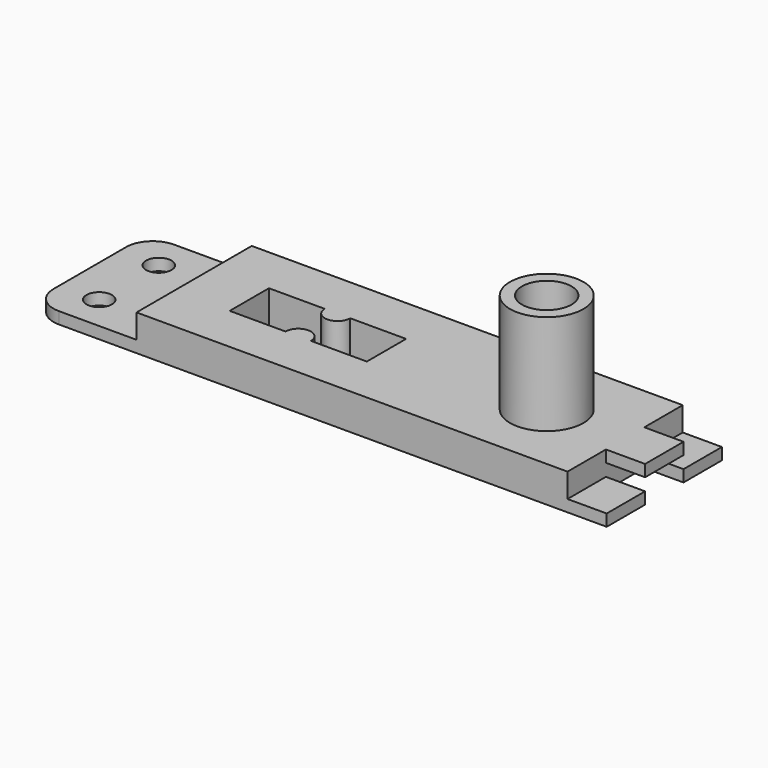
from build123d import *

# Parameters (mm, degrees)
F0_R     = 1.651
F0_R_2   = 4.7625
F0_R_3   = 3.2131
F0_W     = 5.08
F0_H     = 6.223
F1_DEPTH = 1.524
F2_DEPTH = 4.6482
F3_START = 3.1242
F3_DEPTH = 1.524
F4_DEPTH = 16.129


with BuildPart() as f1:
    # F0 (on Top) → F1 (new body)
    with BuildSketch(Plane.XY):
        with BuildLine():
            Line((-23.71344, 0), (-23.71344, 9.3345))
            Line((-23.71344, 9.3345), (-33.782, 9.3345))
            ThreePointArc((-33.782, 9.3345), (-36.2246296649, 8.3227296649), (-37.2364, 5.8801))
            Line((-37.2364, 5.8801), (-37.2364, -5.8801))
            ThreePointArc((-37.2364, -5.8801), (-36.2246296649, -8.3227296649), (-33.782, -9.3345))
            Line((-33.782, -9.3345), (-23.71344, -9.3345))
            Line((-23.71344, -9.3345), (-23.71344, 0))
        make_face()
        with Locations((-32.1564, -4.826)):
            Circle(F0_R, mode=Mode.SUBTRACT)
        with Locations((-32.1564, 4.826)):
            Circle(F0_R, mode=Mode.SUBTRACT)
        Polygon((32.1564, 3.1115), (32.1564, 9.3345), (-23.71344, 9.3345), (-23.71344, 0), (-23.71344, -9.3345), (32.1564, -9.3345), (32.1564, -3.1115), align=None)
        Polygon((-9.3218, -3.18008), (-16.5608, -3.18008), (-16.5608, 3.18008), (-9.3218, 3.18008), (-7.6708, 3.18008), (-6.0198, 3.18008), (1.2192, 3.18008), (1.2192, -3.18008), (-6.0198, -3.18008), (-7.6708, -3.18008), align=None, mode=Mode.SUBTRACT)
        with Locations((21.9964, 0)):
            Circle(F0_R_2, mode=Mode.SUBTRACT)
        with Locations((21.9964, 0)):
            Circle(F0_R_2)
        with Locations((21.9964, 0)):
            Circle(F0_R_3, mode=Mode.SUBTRACT)
        with Locations((34.6964, -6.223)):
            Rectangle(F0_W, F0_H)
        with Locations((34.6964, 6.223)):
            Rectangle(F0_W, F0_H)
        with BuildLine():
            ThreePointArc((-6.0198, -3.18008), (-7.6708, -1.52908), (-9.3218, -3.18008))
            Line((-9.3218, -3.18008), (-7.6708, -3.18008))
            Line((-7.6708, -3.18008), (-6.0198, -3.18008))
        make_face()
        with BuildLine():
            Line((-7.6708, 3.18008), (-9.3218, 3.18008))
            ThreePointArc((-9.3218, 3.18008), (-7.6708, 1.52908), (-6.0198, 3.18008))
            Line((-6.0198, 3.18008), (-7.6708, 3.18008))
        make_face()
    extrude(amount=F1_DEPTH)

    # F0 (on Top) → F2 (join)
    with BuildSketch(Plane.XY):
        Polygon((32.1564, 3.1115), (32.1564, 9.3345), (-23.71344, 9.3345), (-23.71344, 0), (-23.71344, -9.3345), (32.1564, -9.3345), (32.1564, -3.1115), align=None)
        Polygon((-9.3218, -3.18008), (-16.5608, -3.18008), (-16.5608, 3.18008), (-9.3218, 3.18008), (-7.6708, 3.18008), (-6.0198, 3.18008), (1.2192, 3.18008), (1.2192, -3.18008), (-6.0198, -3.18008), (-7.6708, -3.18008), align=None, mode=Mode.SUBTRACT)
        with Locations((21.9964, 0)):
            Circle(F0_R_2, mode=Mode.SUBTRACT)
        with BuildLine():
            ThreePointArc((-6.0198, -3.18008), (-7.6708, -1.52908), (-9.3218, -3.18008))
            Line((-9.3218, -3.18008), (-7.6708, -3.18008))
            Line((-7.6708, -3.18008), (-6.0198, -3.18008))
        make_face()
        with BuildLine():
            Line((-7.6708, 3.18008), (-9.3218, 3.18008))
            ThreePointArc((-9.3218, 3.18008), (-7.6708, 1.52908), (-6.0198, 3.18008))
            Line((-6.0198, 3.18008), (-7.6708, 3.18008))
        make_face()
    extrude(amount=F2_DEPTH)

    # F0 (on Top) → F3 (join)
    with BuildSketch(Plane.XY.offset(F3_START)):
        with Locations((34.6964, 0)):
            Rectangle(F0_W, F0_H)
    extrude(amount=F3_DEPTH)

    # F4 (add): a face of the model
    f4_faces = [f1.faces().sort_by_distance(p)[0] for p in [
        (17.3686038418, 0, 1.524),
    ]]
    extrude(f4_faces, amount=F4_DEPTH)


solid = f1.part
